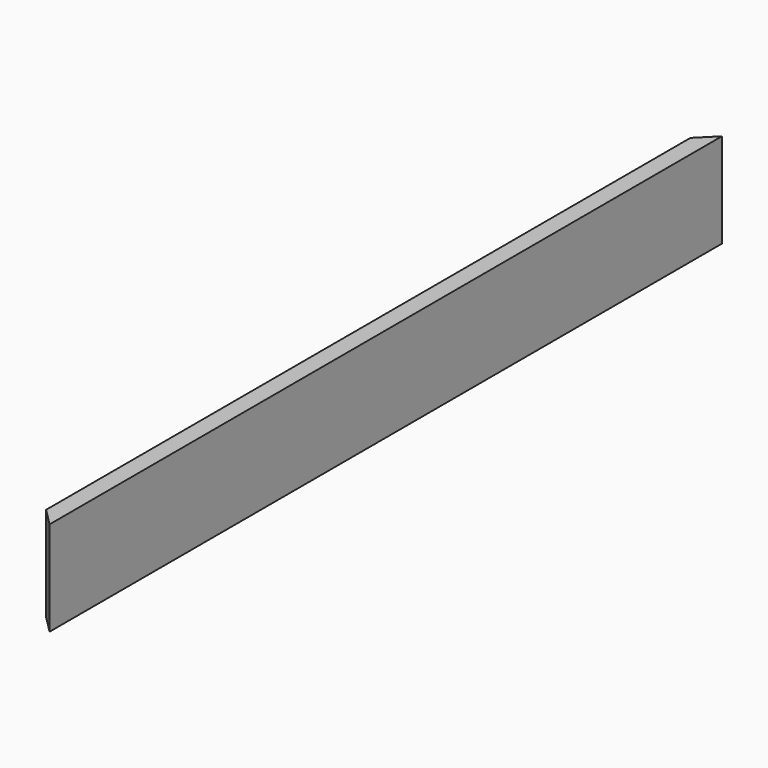
from build123d import *

# Parameters (mm, degrees)
F0_W     = 609.6
F0_H     = 68.58
F1_DEPTH = 12.7
F3_DEPTH = 68.581


with BuildPart() as f1:
    # F0 (on Right) → F1 (new body)
    with BuildSketch(Plane.YZ):
        with Locations((304.8, 34.29)):
            Rectangle(F0_W, F0_H)
    extrude(amount=F1_DEPTH)

    # F2 (on face) → F3 (cut, through all)
    with BuildSketch(Plane.XY.offset(68.58)):
        Polygon((0, 0), (12.7, 0), (0, 12.7), align=None)
        Polygon((0, 596.9), (12.7, 609.6), (0, 609.6), align=None)
    extrude(amount=-F3_DEPTH, mode=Mode.SUBTRACT)


solid = f1.part
